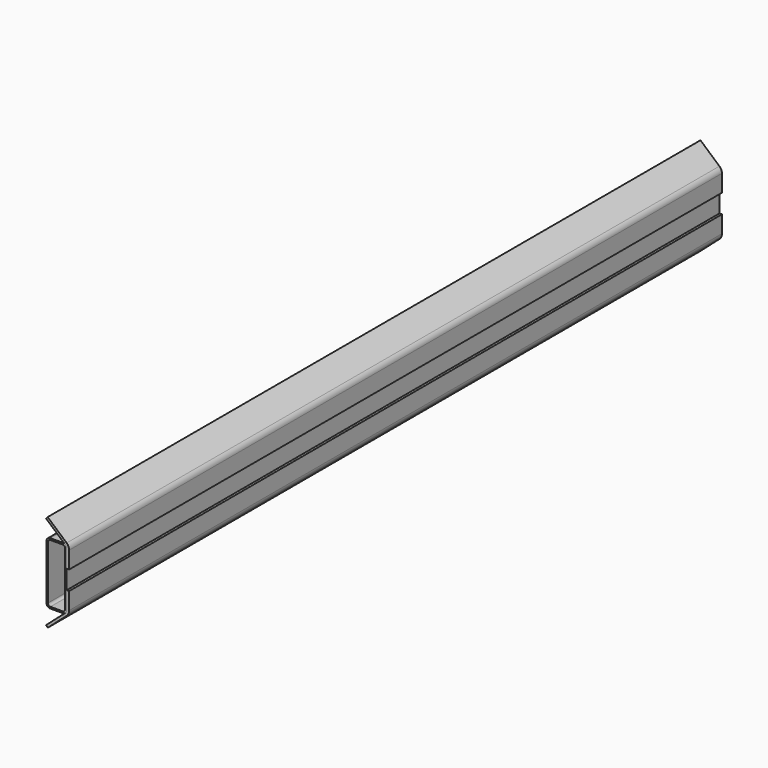
from build123d import *

# Parameters (mm, degrees)
F1_DEPTH = 500
F2_R     = 9
F3_R     = 5
F4_W     = 25
F4_H     = 76
F4_W_2   = 21
F4_H_2   = 72
F5_DEPTH = 500
F6_R     = 3
F7_R     = 5


with BuildPart() as f1:
    # F0 (on Front) → F1 (new body, symmetric)
    with BuildSketch(Plane.XZ):
        Polygon((0, 0), (0, 25), (-26.2895728205, 48.105375152), (-28.2700335478, 45.8519831959), (-3, 23.6426605412), (-3, 0), align=None)
    extrude(amount=F1_DEPTH, both=True)

    # F2
    f2_edges = [f1.edges().sort_by_distance(p)[0] for p in [
        (0, 0, 25),
    ]]
    fillet(f2_edges, radius=F2_R)

    # F3
    f3_edges = [f1.edges().sort_by_distance(p)[0] for p in [
        (-3, 0, 23.642661),
    ]]
    fillet(f3_edges, radius=F3_R)


with BuildPart() as f5:
    # F4 (on Front) → F5 (new body, symmetric)
    with BuildSketch(Plane.XZ):
        with Locations((-25.3487033769, -76.5925243596)):
            Rectangle(F4_W, F4_H)
        with Locations((-25.3487033769, -76.5925243596)):
            Rectangle(F4_W_2, F4_H_2, mode=Mode.SUBTRACT)
    extrude(amount=F5_DEPTH, both=True)

    # F6
    f6_edges = [f5.edges().sort_by_distance(p)[0] for p in [
        (-35.848703, 0, -40.592524),
        (-35.848703, 0, -112.592524),
        (-14.848703, 0, -40.592524),
        (-14.848703, 0, -112.592524),
    ]]
    fillet(f6_edges, radius=F6_R)

    # F7
    f7_edges = [f5.edges().sort_by_distance(p)[0] for p in [
        (-37.848703, 0, -38.592524),
        (-12.848703, 0, -38.592524),
        (-12.848703, 0, -114.592524),
        (-37.848703, 0, -114.592524),
    ]]
    fillet(f7_edges, radius=F7_R)


with BuildPart() as f5_1:
    # F8: moved
    add(f5.part.moved(Location((9.85, 0, 67.65))))


with BuildPart() as f9_1:
    # F9: instance of F1
    add(f1.part.mirror(Plane.XY))


with BuildPart() as f9_1_1:
    # F10: moved
    add(f9_1.part.moved(Location((0, 0, -17.825))))


with BuildPart() as f1_1:
    # F11: moved
    add(f1.part.moved(Location((0, 0, 2.675))))


with BuildPart() as f9_1_2:
    # F12: moved
    add(f9_1_1.part.moved(Location((0, 0, -2.75))))


solid = Compound([f5_1.part, f1_1.part, f9_1_2.part])
